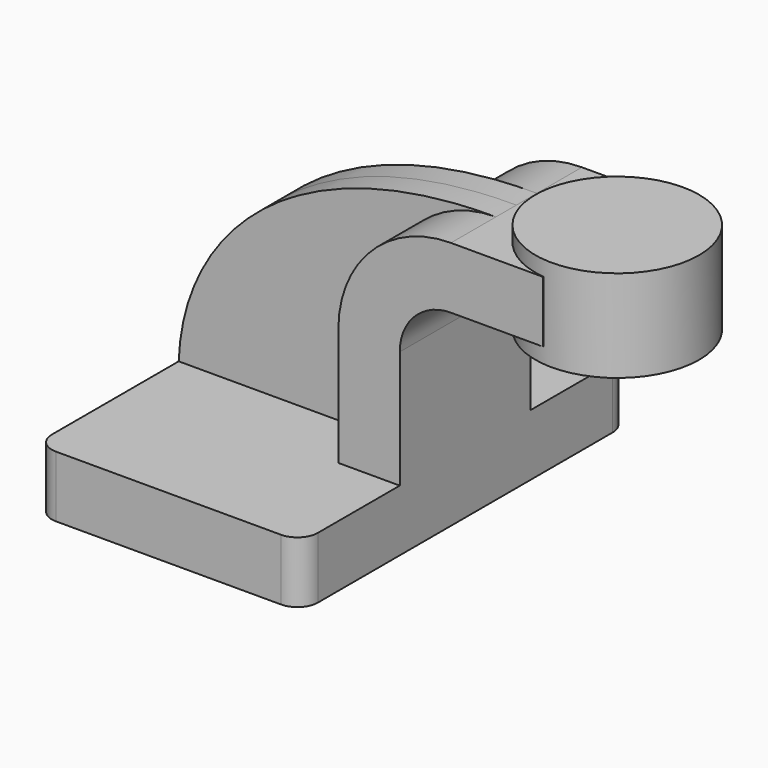
from build123d import *

# Parameters (mm, degrees)
F1_DEPTH = 63.5
F0_W     = 22.693397
F0_H     = 19.05
F2_DEPTH = 25.4
F3_DEPTH = 7.9375
F5_R     = 6.35


with BuildPart() as f1:
    # F0 (on Front) → F1 (new body, symmetric)
    with BuildSketch(Plane.XZ):
        Polygon((41.275, -9.525), (41.275, 9.525), (22.225, 9.525), (-41.275, 9.525), (-41.275, -9.525), align=None)
    extrude(amount=F1_DEPTH, both=True)

    # F0 (on Front) → F2 (join, symmetric)
    with BuildSketch(Plane.XZ):
        with BuildLine():
            Line((22.225, 9.525), (41.275, 9.525))
            Line((41.275, 9.525), (41.275, 46.0502))
            ThreePointArc((41.275, 46.0502), (45.92468, 57.27552), (57.15, 61.9252))
            Line((57.15, 61.9252), (63.031603, 61.9252))
            Line((63.031603, 61.9252), (63.031603, 80.9752))
            Line((63.031603, 80.9752), (57.15, 80.9752))
            ThreePointArc((57.15, 80.9752), (32.454296, 70.745904), (22.225, 46.0502))
            Line((22.225, 46.0502), (22.225, 9.525))
        make_face()
        with Locations((74.378301, 71.4502)):
            Rectangle(F0_W, F0_H)
    extrude(amount=F2_DEPTH, both=True)

    # F0 (on Front) → F3 (join, symmetric)
    with BuildSketch(Plane.XZ):
        with BuildLine():
            Line((-41.275, 9.525), (22.225, 9.525))
            Line((22.225, 9.525), (22.225, 46.0502))
            ThreePointArc((22.225, 46.0502), (32.454296, 70.745904), (57.15, 80.9752))
            add(Edge.make_bspline(
                [(-41.275, 9.525), (-39.910629, 47.554985), (-5.663922, 81.163555), (57.15, 80.9752)],
                knots=[0, 0, 0, 0, 121.624881, 121.624881, 121.624881, 121.624881], degree=3))
        make_face()
    extrude(amount=F3_DEPTH, both=True)

    # F0 (on Front) → F4 (revolve)
    with BuildSketch(Plane.XZ):
        Polygon((88.431603, 71.4375), (88.431603, 57.15), (113.831603, 57.15), (113.831603, 85.725), (88.431603, 85.725), align=None)
    revolve(axis=Axis((88.431603, 0, 64.29375), (0, 0, -1)))

    # F5
    f5_edges = [f1.edges().sort_by_distance(p)[0] for p in [
        (-41.275, 63.5, 0),
        (-41.275, -63.5, 0),
        (41.275, -63.5, 0),
        (41.275, 63.5, 0),
    ]]
    fillet(f5_edges, radius=F5_R)


solid = f1.part
